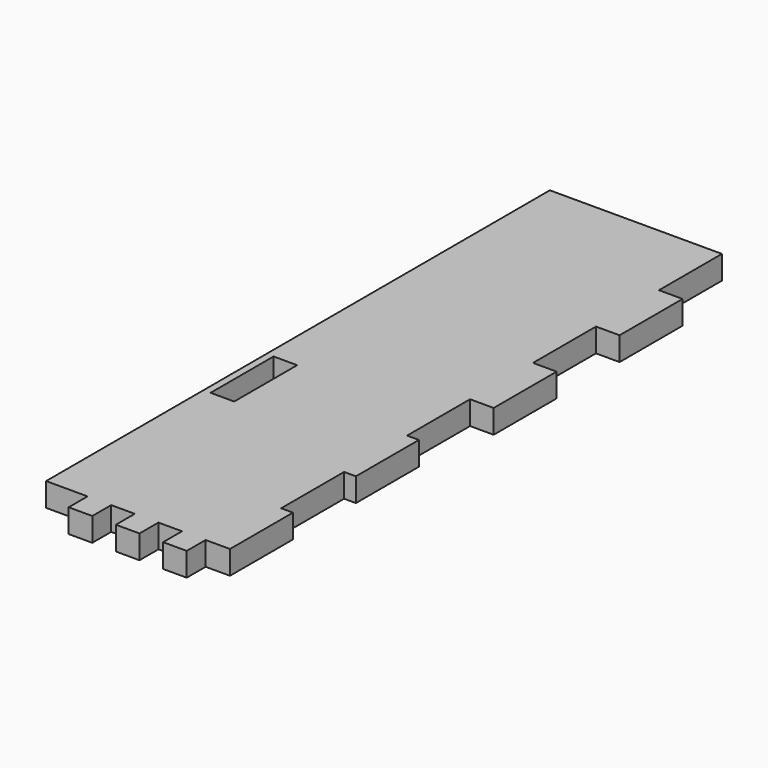
from build123d import *

# Parameters (mm, degrees)
F0_W     = 3
F0_H     = 3
F0_H_2   = 10
F1_DEPTH = 3
F2_W     = 8
F2_H     = 80
F3_DEPTH = 25
F4_W     = 1.5
F4_H     = 10
F5_DEPTH = 25
F6_W     = 3
F6_H     = 10
F7_DEPTH = 25


with BuildPart() as f1:
    # F0 (on Top) → F1 (new body)
    with BuildSketch(Plane.XY):
        with Locations((-0.16321, -41.5)):
            Rectangle(F0_W, F0_H)
        with Locations((5.83679, -41.5)):
            Rectangle(F0_W, F0_H)
        Polygon((11.93179, 40), (-14.93179, 40), (-14.93179, -40), (-1.66321, -40), (1.33679, -40), (4.33679, -40), (7.33679, -40), (10.33679, -40), (11.93179, -40), (11.93179, -30), (11.93179, -20), (11.93179, -10), (11.93179, 0), (11.93179, 10), (11.93179, 20), (11.93179, 30), align=None)
        Polygon((11.93179, -30), (11.93179, -40), (13.33679, -40), (14.93179, -40), (14.93179, -30), align=None)
        with Locations((13.43179, -25)):
            Rectangle(F0_W, F0_H_2)
        Polygon((17.93179, -30), (14.93179, -30), (14.93179, -40), (16.52679, -40), (17.93179, -40), align=None)
        Polygon((11.93179, -40), (10.33679, -40), (10.33679, -43), (13.33679, -43), (13.33679, -40), align=None)
        with Locations((13.43179, -15)):
            Rectangle(F0_W, F0_H_2)
        with Locations((16.43179, -15)):
            Rectangle(F0_W, F0_H_2)
        with Locations((13.43179, -5)):
            Rectangle(F0_W, F0_H_2)
        with Locations((16.43179, 5)):
            Rectangle(F0_W, F0_H_2)
        with Locations((13.43179, 5)):
            Rectangle(F0_W, F0_H_2)
        with Locations((13.43179, 15)):
            Rectangle(F0_W, F0_H_2)
        with Locations((13.43179, 25)):
            Rectangle(F0_W, F0_H_2)
        with Locations((16.43179, 25)):
            Rectangle(F0_W, F0_H_2)
        with Locations((13.43179, 35)):
            Rectangle(F0_W, F0_H_2)
    extrude(amount=F1_DEPTH)

    # F2 (on face) → F3 (cut)
    with BuildSketch(Plane.XY.offset(3)):
        with Locations((-10.93179, 0)):
            Rectangle(F2_W, F2_H)
    extrude(amount=-F3_DEPTH, mode=Mode.SUBTRACT)

    # F4 (on face) → F5 (cut)
    with BuildSketch(Plane.XY.offset(3)):
        with Locations((17.18179, -35)):
            Rectangle(F4_W, F4_H)
        with Locations((17.18179, -15)):
            Rectangle(F4_W, F4_H)
    extrude(amount=-F5_DEPTH, mode=Mode.SUBTRACT)

    # F6 (on face) → F7 (cut)
    with BuildSketch(Plane.XY.offset(3)):
        with Locations((-4.53179, -10)):
            Rectangle(F6_W, F6_H)
    extrude(amount=-F7_DEPTH, mode=Mode.SUBTRACT)


solid = f1.part
